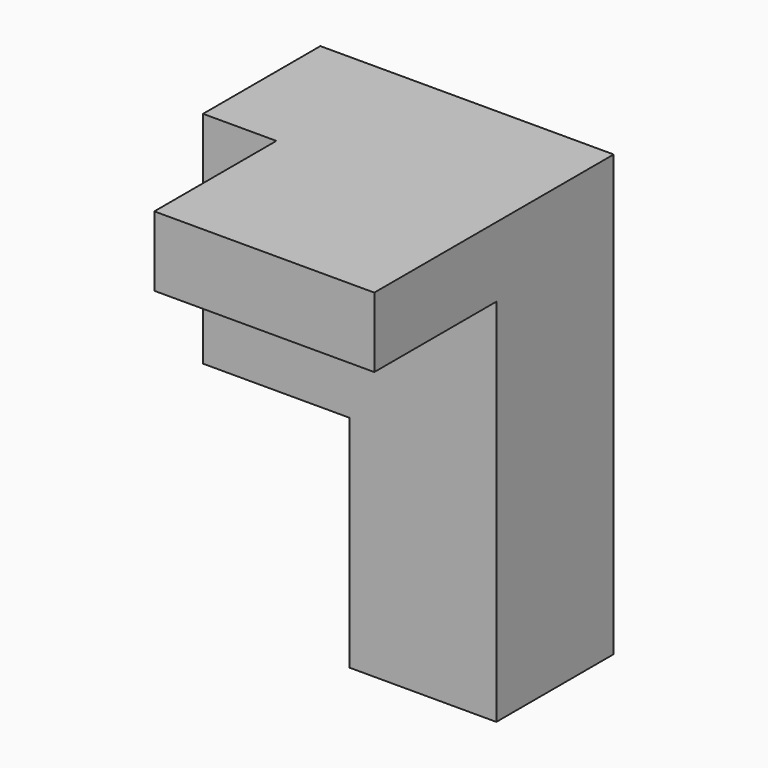
from build123d import *

# Parameters (mm, degrees)
F1_DEPTH = 12.7
F2_W     = 13.213198
F2_H     = 6.058082
F3_DEPTH = 19.05


with BuildPart() as f1:
    # F0 (on Front) → F1 (new body)
    with BuildSketch(Plane.XZ):
        Polygon((-12.7, 0), (0, 0), (0, 38.1), (-25.4, 38.1), (-25.4, 19.05), (-12.7, 19.05), align=None)
    extrude(amount=F1_DEPTH)

    # F2 (on face) → F3 (join)
    with BuildSketch(Plane.YZ):
        with Locations((-19.306599, 35.070959)):
            Rectangle(F2_W, F2_H)
    extrude(amount=-F3_DEPTH)


solid = f1.part
